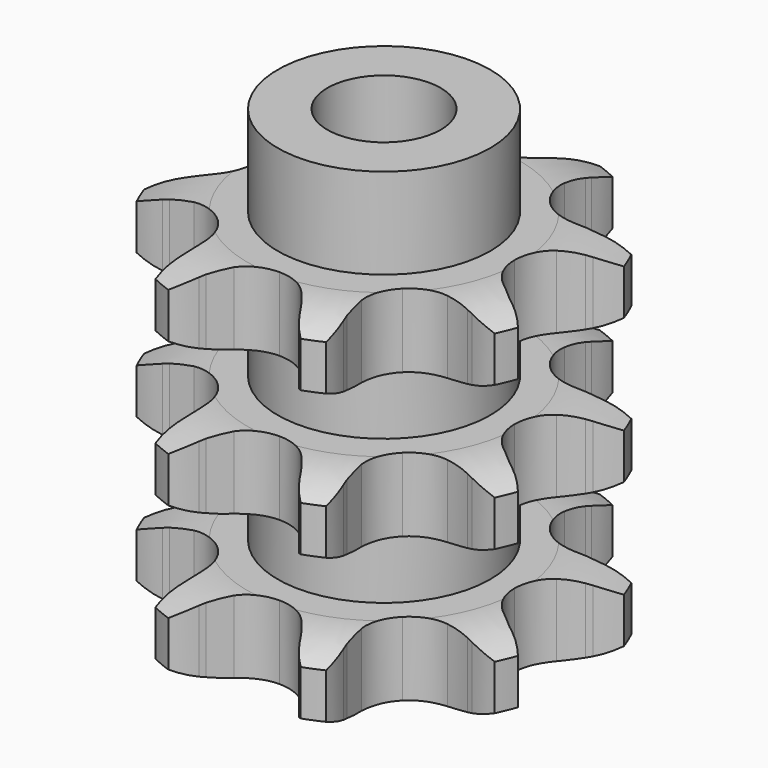
from build123d import *

# Parameters (mm, degrees)
PAD_DEPTH         = 25.6
SKETCH001_R       = 7.5
PAD001_DEPTH      = 32
SKETCH002_R       = 4
POCKET_DEPTH      = 0.001
POCKET_DEPTH_BACK = 32.001


with BuildPart() as part:
    # Sprocket → Pad (new body)
    with BuildSketch(Plane.XY):
        with BuildLine():
            ThreePointArc((-5.766758, 13.922185), (-4.521193, 13.063008), (-3.559374, 11.894879))
            Line((-3.559374, 11.894879), (-3.339197, 11.535583))
            ThreePointArc((-3.339197, 11.535583), (-2.890474, 10.876545), (-2.38065, 10.263548))
            ThreePointArc((-2.38065, 10.263548), (-1.300459, 9.489494), (0, 9.216037))
            ThreePointArc((0, 9.216037), (1.300459, 9.489494), (2.38065, 10.263548))
            ThreePointArc((2.38065, 10.263548), (2.890474, 10.876545), (3.339197, 11.535583))
            Line((3.339197, 11.535583), (3.559374, 11.894879))
            ThreePointArc((3.559374, 11.894879), (4.521193, 13.063008), (5.766758, 13.922185))
            ThreePointArc((5.766758, 13.922185), (6.039975, 12.433907), (5.894092, 10.927807))
            Line((5.894092, 10.927807), (5.79572, 10.518058))
            ThreePointArc((5.79572, 10.518058), (5.647005, 9.734752), (5.574051, 8.940798))
            ThreePointArc((5.574051, 8.940798), (5.790522, 7.629649), (6.516722, 6.516722))
            ThreePointArc((6.516722, 6.516722), (7.629649, 5.790522), (8.940798, 5.574051))
            Line((8.940798, 5.574051), (10.518058, 5.79572))
            ThreePointArc((10.518058, 5.79572), (10.722309, 5.847504), (10.927807, 5.894092))
            ThreePointArc((10.927807, 5.894092), (12.433907, 6.039975), (13.922185, 5.766758))
            ThreePointArc((13.922185, 5.766758), (13.063008, 4.521193), (11.894879, 3.559374))
            Line((11.894879, 3.559374), (11.535583, 3.339197))
            ThreePointArc((11.535583, 3.339197), (10.876545, 2.890474), (10.263548, 2.38065))
            ThreePointArc((10.263548, 2.38065), (9.489494, 1.300459), (9.216037, 0))
            ThreePointArc((9.216037, 0), (9.489494, -1.300459), (10.263548, -2.38065))
            Line((10.263548, -2.38065), (11.535583, -3.339197))
            ThreePointArc((11.535583, -3.339197), (11.716627, -3.447007), (11.894879, -3.559374))
            ThreePointArc((11.894879, -3.559374), (13.063008, -4.521193), (13.922185, -5.766758))
            ThreePointArc((13.922185, -5.766758), (12.433907, -6.039975), (10.927807, -5.894092))
            Line((10.927807, -5.894092), (10.518058, -5.79572))
            ThreePointArc((10.518058, -5.79572), (9.734752, -5.647005), (8.940798, -5.574051))
            ThreePointArc((8.940798, -5.574051), (7.629649, -5.790522), (6.516722, -6.516722))
            ThreePointArc((6.516722, -6.516722), (5.790522, -7.629649), (5.574051, -8.940798))
            Line((5.574051, -8.940798), (5.79572, -10.518058))
            ThreePointArc((5.79572, -10.518058), (5.847504, -10.722309), (5.894092, -10.927807))
            ThreePointArc((5.894092, -10.927807), (6.039975, -12.433907), (5.766758, -13.922185))
            ThreePointArc((5.766758, -13.922185), (4.521193, -13.063008), (3.559374, -11.894879))
            Line((3.559374, -11.894879), (3.339197, -11.535583))
            ThreePointArc((3.339197, -11.535583), (2.890474, -10.876545), (2.38065, -10.263548))
            ThreePointArc((2.38065, -10.263548), (1.300459, -9.489494), (0, -9.216037))
            ThreePointArc((0, -9.216037), (-1.300459, -9.489494), (-2.38065, -10.263548))
            Line((-2.38065, -10.263548), (-3.339197, -11.535583))
            ThreePointArc((-3.339197, -11.535583), (-3.447007, -11.716627), (-3.559374, -11.894879))
            ThreePointArc((-3.559374, -11.894879), (-4.521193, -13.063008), (-5.766758, -13.922185))
            ThreePointArc((-5.766758, -13.922185), (-6.039975, -12.433907), (-5.894092, -10.927807))
            Line((-5.894092, -10.927807), (-5.79572, -10.518058))
            ThreePointArc((-5.79572, -10.518058), (-5.647005, -9.734752), (-5.574051, -8.940798))
            ThreePointArc((-5.574051, -8.940798), (-5.790522, -7.629649), (-6.516722, -6.516722))
            ThreePointArc((-6.516722, -6.516722), (-7.629649, -5.790522), (-8.940798, -5.574051))
            Line((-8.940798, -5.574051), (-10.518058, -5.79572))
            ThreePointArc((-10.518058, -5.79572), (-10.722309, -5.847504), (-10.927807, -5.894092))
            ThreePointArc((-10.927807, -5.894092), (-12.433907, -6.039975), (-13.922185, -5.766758))
            ThreePointArc((-13.922185, -5.766758), (-13.063008, -4.521193), (-11.894879, -3.559374))
            Line((-11.894879, -3.559374), (-11.535583, -3.339197))
            ThreePointArc((-11.535583, -3.339197), (-10.876545, -2.890474), (-10.263548, -2.38065))
            ThreePointArc((-10.263548, -2.38065), (-9.489494, -1.300459), (-9.216037, 0))
            ThreePointArc((-9.216037, 0), (-9.489494, 1.300459), (-10.263548, 2.38065))
            Line((-10.263548, 2.38065), (-11.535583, 3.339197))
            ThreePointArc((-11.535583, 3.339197), (-11.716627, 3.447007), (-11.894879, 3.559374))
            ThreePointArc((-11.894879, 3.559374), (-13.063008, 4.521193), (-13.922185, 5.766758))
            ThreePointArc((-13.922185, 5.766758), (-12.433907, 6.039975), (-10.927807, 5.894092))
            Line((-10.927807, 5.894092), (-10.518058, 5.79572))
            ThreePointArc((-10.518058, 5.79572), (-9.734752, 5.647005), (-8.940798, 5.574051))
            ThreePointArc((-8.940798, 5.574051), (-7.629649, 5.790522), (-6.516722, 6.516722))
            ThreePointArc((-6.516722, 6.516722), (-5.790522, 7.629649), (-5.574051, 8.940798))
            Line((-5.574051, 8.940798), (-5.79572, 10.518058))
            ThreePointArc((-5.79572, 10.518058), (-5.847504, 10.722309), (-5.894092, 10.927807))
            ThreePointArc((-5.894092, 10.927807), (-6.039975, 12.433907), (-5.766758, 13.922185))
        make_face()
    extrude(amount=PAD_DEPTH)

    # Sketch → Groove (revolve, cut)
    with BuildSketch(Plane.XZ):
        with BuildLine():
            ThreePointArc((9.641101, 0), (11.877169, 0.253206), (14, 1))
            Line((14, 1), (14, 4.2))
            ThreePointArc((14, 4.2), (11.877169, 4.946794), (9.641101, 5.2))
            Line((7.5, 5.2), (9.641101, 5.2))
            Line((7.5, 5.2), (7.5, 10.2))
            Line((7.5, 10.2), (9.641101, 10.2))
            ThreePointArc((9.641101, 10.2), (11.877169, 10.453206), (14, 11.2))
            Line((14, 14.4), (14, 11.2))
            ThreePointArc((14, 14.4), (11.877169, 15.146794), (9.641101, 15.4))
            Line((7.5, 15.4), (9.641101, 15.4))
            Line((7.5, 20.4), (7.5, 15.4))
            Line((9.641101, 20.4), (7.5, 20.4))
            ThreePointArc((9.641101, 20.4), (11.877169, 20.653206), (14, 21.4))
            Line((14, 21.4), (14, 24.6))
            ThreePointArc((14, 24.6), (11.877169, 25.346794), (9.641101, 25.6))
            Line((9.641101, 25.6), (24, 25.6))
            Line((24, 25.6), (24, 0))
            Line((9.641101, 0), (24, 0))
        make_face()
    revolve(axis=Axis((0, 0, 0), (0, 0, 1)), mode=Mode.SUBTRACT)

    # Sketch001 → Pad001 (join)
    with BuildSketch(Plane.XY):
        Circle(SKETCH001_R)
    extrude(amount=PAD001_DEPTH)

    # Sketch002 → Pocket (cut, two sides)
    with BuildSketch(Plane.XY) as pocket_sk:
        Circle(SKETCH002_R)
    extrude(amount=-POCKET_DEPTH, mode=Mode.SUBTRACT)
    extrude(pocket_sk.sketch, amount=POCKET_DEPTH_BACK, mode=Mode.SUBTRACT)


solid = part.part
